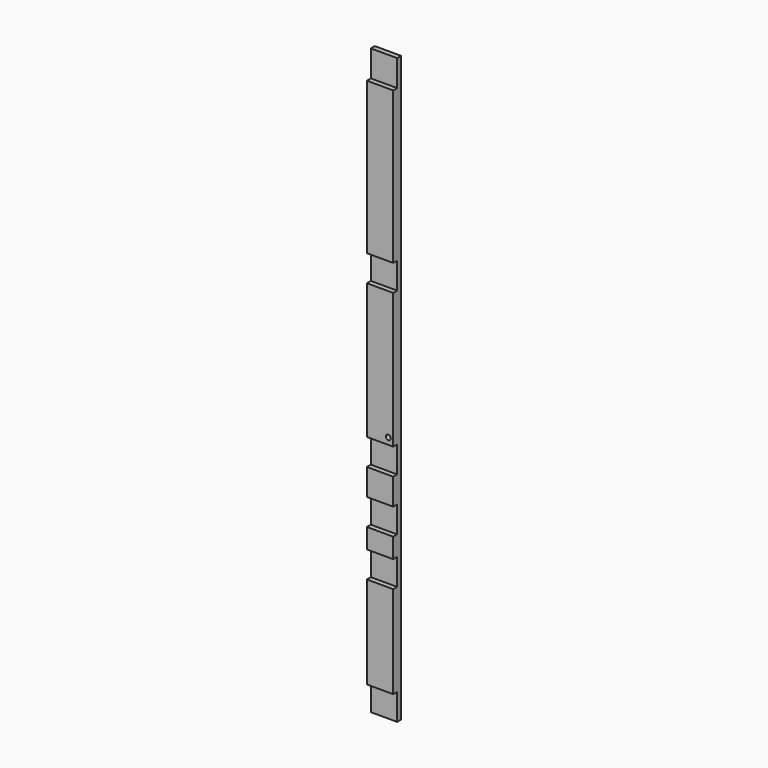
from build123d import *

# Parameters (mm, degrees)
F0_W     = 50.8
F0_H     = 19.05
F1_DEPTH = 1123.95
F2_W     = 122.435573
F2_H     = 50.8
F2_W_2   = 108.831619
F2_W_3   = 93.867282
F2_W_4   = 145.562325
F2_W_5   = 343.160421
F2_W_6   = 239.549167
F3_DEPTH = 25.4
F4_R     = 4.7625
F5_DEPTH = 25.4


with BuildPart() as f1:
    # F0 (on Top) → F1 (new body)
    with BuildSketch(Plane.XY):
        Rectangle(F0_W, F0_H)
    extrude(amount=F1_DEPTH)

    # F2 (on Front) → F3 (cut)
    with BuildSketch(Plane.XZ):
        with Locations((22.446524, 25.4)):
            Rectangle(F2_W, F2_H)
        with Locations((-4.761385, 342.9)):
            Rectangle(F2_W_2, F2_H)
        with Locations((2.720783, 755.65)):
            Rectangle(F2_W_3, F2_H)
        with Locations((-1.360391, 444.5)):
            Rectangle(F2_W_4, F2_H)
        with Locations((-38.781822, 1098.55)):
            Rectangle(F2_W_5, F2_H)
        with Locations((-25.794175, 254)):
            Rectangle(F2_W_6, F2_H)
    extrude(amount=F3_DEPTH, mode=Mode.SUBTRACT)

    # F4 (on Front) → F5 (cut)
    with BuildSketch(Plane.XZ):
        with Locations((15.875, 254)):
            Circle(F4_R)
        with Locations((15.875, 482.6)):
            Circle(F4_R)
    extrude(amount=F5_DEPTH, mode=Mode.SUBTRACT)


solid = f1.part
